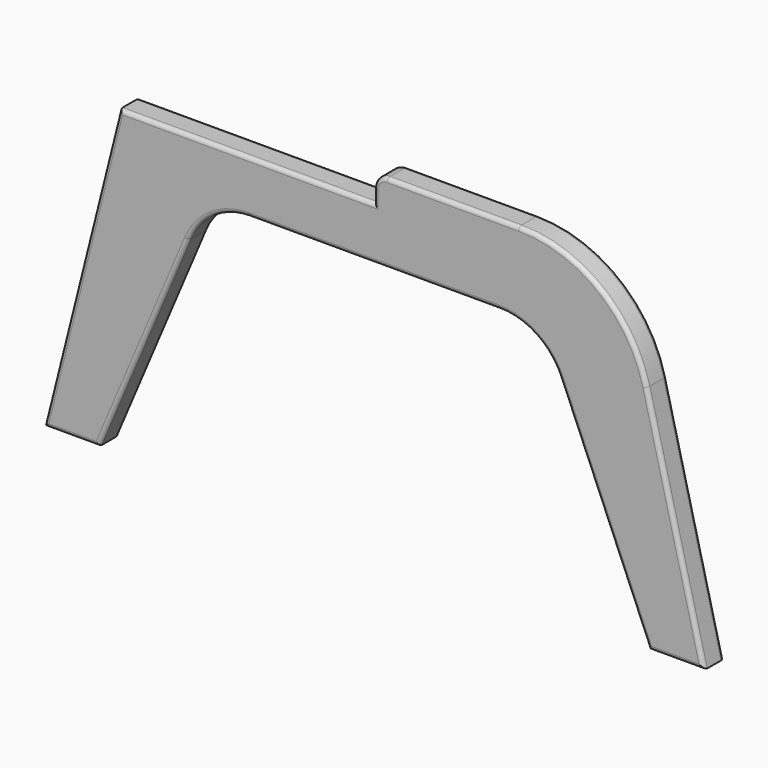
from build123d import *

# Parameters (mm, degrees)
F1_DEPTH = 19
F2_R     = 3


with BuildPart() as f1:
    # F0 (on Front) → F1 (new body)
    with BuildSketch(Plane.XZ):
        with BuildLine():
            Line((57.345441, 230), (0, 0))
            Line((0, 0), (41.681786, 0))
            Line((41.681786, 0), (109.401036, 159.536556))
            ThreePointArc((109.401036, 159.536556), (127.82943, 181.694291), (155.426279, 190))
            Line((155.426279, 190), (250, 190))
            Line((250, 190), (344.573721, 190))
            ThreePointArc((344.573721, 190), (372.17057, 181.694291), (390.598964, 159.536556))
            Line((390.598964, 159.536556), (458.318214, 0))
            Line((458.318214, 0), (500, 0))
            Line((500, 0), (456.569009, 174.19219))
            ThreePointArc((456.569009, 174.19219), (421.105584, 228.801075), (359.539437, 250))
            Line((359.539437, 250), (260, 250))
            ThreePointArc((260, 250), (252.928932, 247.071068), (250, 240))
            Line((250, 240), (250, 230))
            Line((250, 230), (57.345441, 230))
        make_face()
    extrude(amount=F1_DEPTH)

    # F2
    f2_edges = [f1.edges().sort_by_distance(p)[0] for p in [
        (28.67272, -19, 115),
        (20.840893, -19, 0),
        (75.541411, -19, 79.768278),
        (127.82943, -19, 181.694291),
        (250, -19, 190),
        (372.17057, -19, 181.694291),
        (424.458589, -19, 79.768278),
        (479.159107, -19, 0),
        (478.284505, -19, 87.096095),
        (421.105584, -19, 228.801075),
        (309.769718, -19, 250),
        (252.928932, -19, 247.071068),
        (250, -19, 235),
        (153.67272, -19, 230),
        (28.67272, 0, 115),
        (20.840893, 0, 0),
        (75.541411, 0, 79.768278),
        (127.82943, 0, 181.694291),
        (250, 0, 190),
        (372.17057, 0, 181.694291),
        (424.458589, 0, 79.768278),
        (479.159107, 0, 0),
        (478.284505, 0, 87.096095),
        (421.105584, 0, 228.801075),
        (309.769718, 0, 250),
        (252.928932, 0, 247.071068),
        (250, 0, 235),
        (153.67272, 0, 230),
    ]]
    fillet(f2_edges, radius=F2_R)


solid = f1.part
